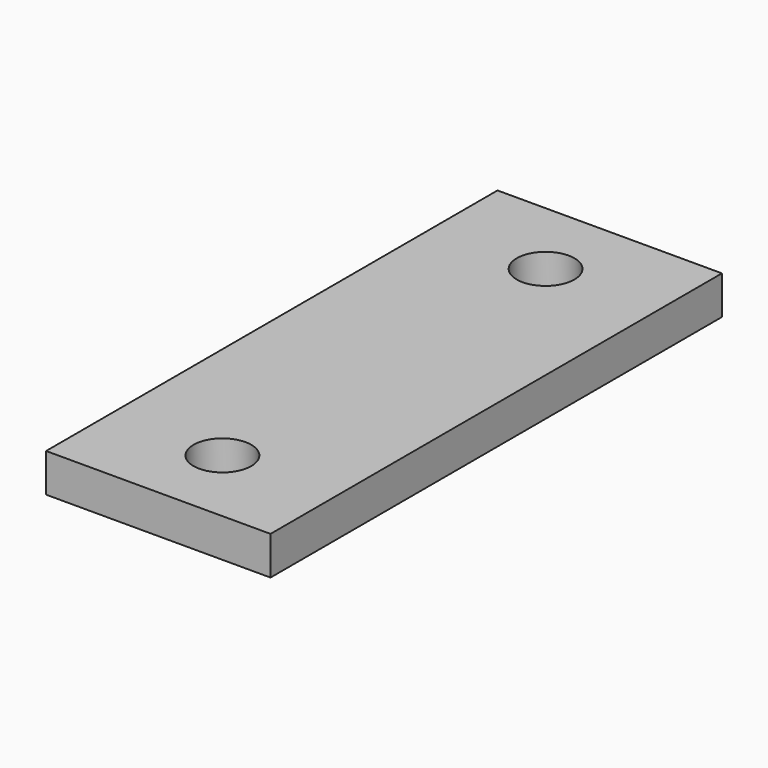
from build123d import *

# Parameters (mm, degrees)
F0_W     = 70
F0_H     = 176
F1_DEPTH = 12
F2_R     = 9
F3_DEPTH = 25


with BuildPart() as f1:
    # F0 (on Top) → F1 (new body)
    with BuildSketch(Plane.XY):
        Rectangle(F0_W, F0_H)
    extrude(amount=F1_DEPTH)

    # F2 (on face) → F3 (cut)
    with BuildSketch(Plane(origin=(0, 0, 0), x_dir=(1, 0, 0), z_dir=(0, 0, -1))):
        with Locations((0, 63)):
            Circle(F2_R)
        with Locations((0, -63)):
            Circle(F2_R)
    extrude(amount=-F3_DEPTH, mode=Mode.SUBTRACT)


solid = f1.part
